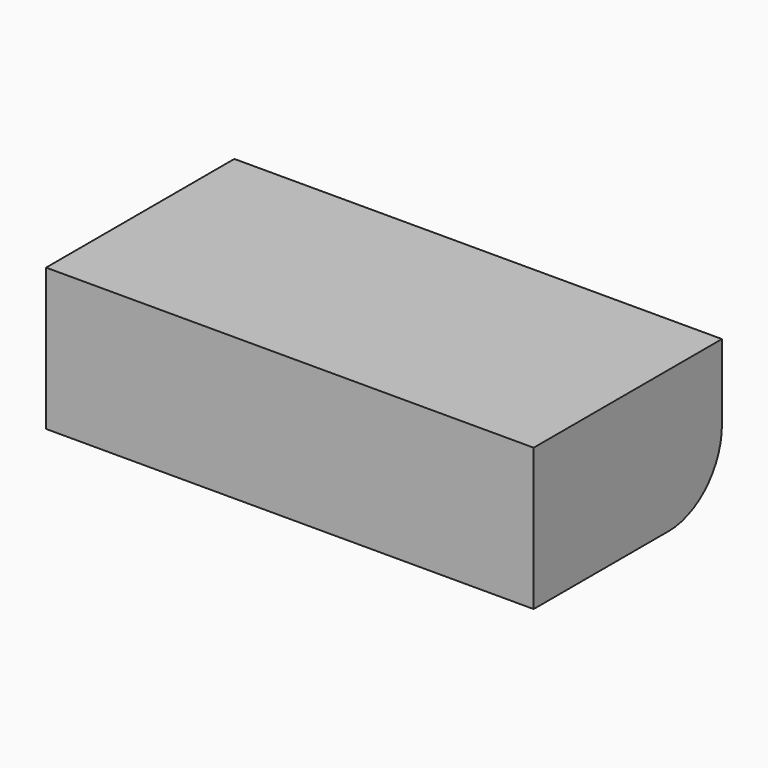
from build123d import *

# Parameters (mm, degrees)
F0_W     = 81.049094
F0_H     = 23.615702
F1_DEPTH = 39.116
F2_R     = 11.037784


with BuildPart() as f1:
    # F0 (on Front) → F1 (new body)
    with BuildSketch(Plane.XZ):
        with Locations((2.833883, 0.188927)):
            Rectangle(F0_W, F0_H)
    extrude(amount=-F1_DEPTH)

    # F2
    f2_edges = [f1.edges().sort_by_distance(p)[0] for p in [
        (2.833883, 39.116, -11.618924),
    ]]
    fillet(f2_edges, radius=F2_R)


solid = f1.part
